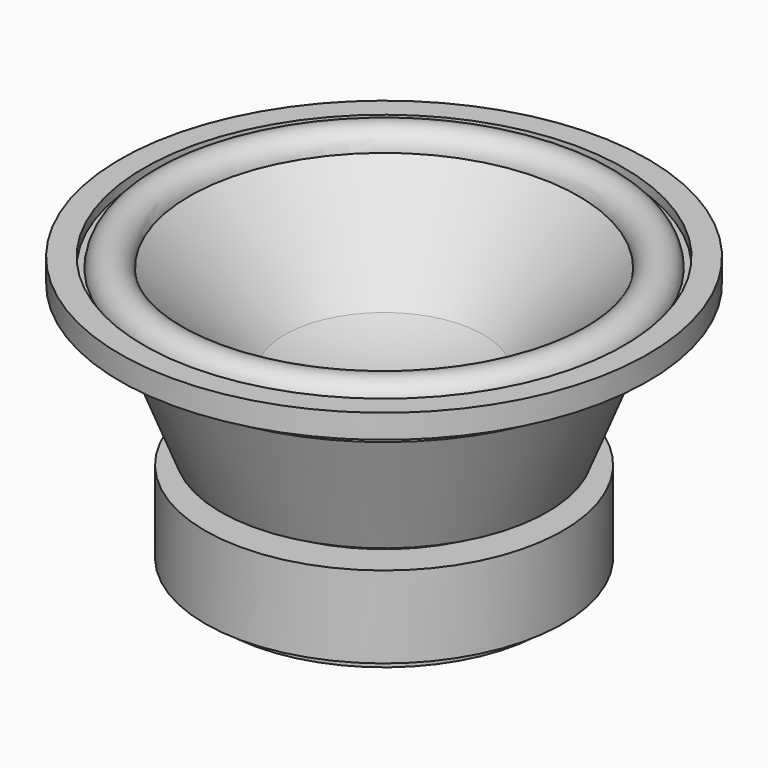
from build123d import *


with BuildPart() as f1:
    # F0 (on Right) → F1 (revolve)
    with BuildSketch(Plane.YZ):
        with BuildLine():
            Line((0, -89.237345), (0, -10.442538))
            ThreePointArc((0, -10.442538), (-25.539414, -7.80404), (-50, 0))
            Line((-50, 0), (-98.031412, 45.791994))
            ThreePointArc((-98.031412, 45.791994), (-108, 55), (-117.968588, 45.791994))
            Line((-117.968588, 45.791994), (-121, 45.791994))
            Line((-121, 45.791994), (-121, 50.762655))
            Line((-121, 50.762655), (-133, 50.762655))
            Line((-133, 50.762655), (-133, 38.762655))
            Line((-133, 38.762655), (-115.75, 38.762655))
            Line((-115.75, 38.762655), (-115.75, 28.762655))
            Line((-115.75, 28.762655), (-107.782677, 28.762655))
            Line((-107.782677, 28.762655), (-82.250395, -35.764394))
            Line((-82.250395, -35.764394), (-72.037482, -35.764394))
            Line((-72.037482, -35.764394), (-72.037482, -41.503783))
            Line((-72.037482, -41.503783), (-90.14219, -41.503783))
            Line((-90.14219, -41.503783), (-90.14219, -82.738219))
            Line((-90.14219, -82.738219), (-81.00698, -82.738219))
            Line((-81.00698, -82.738219), (-81.00698, -89.237345))
            Line((-81.00698, -89.237345), (0, -89.237345))
        make_face()
    revolve(axis=Axis((0, 0, -49.839942), (0, 0, -1)))


solid = f1.part
